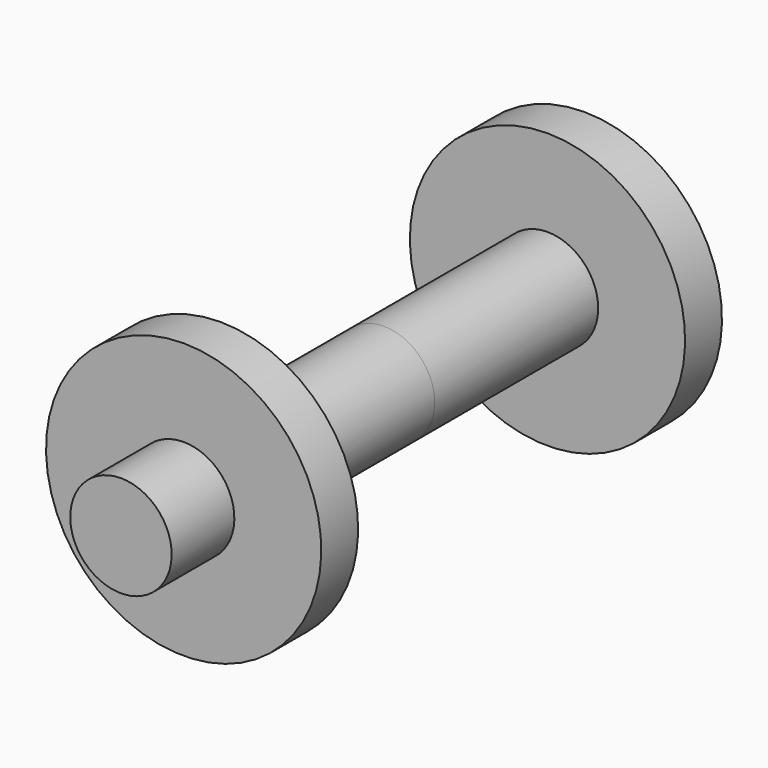
from build123d import *


with BuildPart() as f1:
    # F0 (on Right) → F1 (revolve)
    with BuildSketch(Plane.YZ):
        Polygon((70.530311, 17.5), (0, 17.5), (0, 0), (113.48486, 0), (113.48486, 17.5), (86.439399, 17.5), (86.439399, 47.5), (70.530311, 47.5), align=None)
    revolve(axis=Axis((0, 56.74243, 0), (0, -1, 0)))

    # F2: F1 across plane


with BuildPart() as f1_1:
    add(f1.part)
    add(f1.part.mirror(Plane.XZ))


solid = f1_1.part
